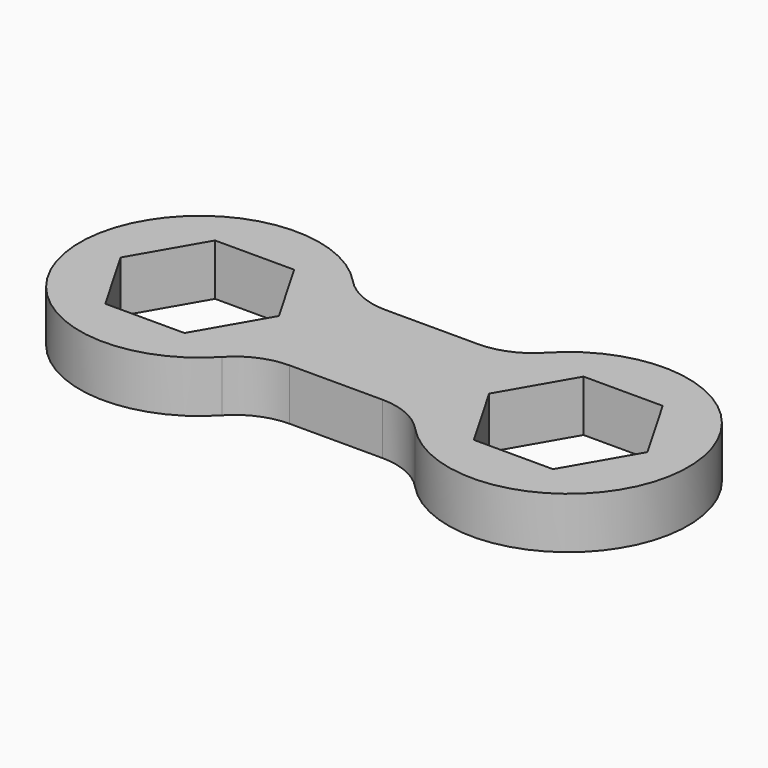
from build123d import *

# Parameters (mm, degrees)
F1_DEPTH = 3


with BuildPart() as f1:
    # F0 (on Top) → F1 (new body)
    with BuildSketch(Plane.XY):
        with BuildLine():
            ThreePointArc((-2.703262, 3.5), (-4.29871, 3.831956), (-5.629348, 4.772727))
            ThreePointArc((-5.629348, 4.772727), (-17.75, 0), (-5.629348, -4.772727))
            ThreePointArc((-5.629348, -4.772727), (-4.29871, -3.831956), (-2.703262, -3.5))
            Line((-2.703262, -3.5), (2.703262, -3.5))
            ThreePointArc((2.703262, -3.5), (4.29871, -3.831956), (5.629348, -4.772727))
            ThreePointArc((5.629348, -4.772727), (17.75, 0), (5.629348, 4.772727))
            ThreePointArc((5.629348, 4.772727), (4.29871, 3.831956), (2.703262, 3.5))
            Line((2.703262, 3.5), (-2.703262, 3.5))
        make_face()
        Polygon((-6.131198, 0), (-8.440599, -4), (-13.059401, -4), (-15.368802, 0), (-13.059401, 4), (-8.440599, 4), align=None, mode=Mode.SUBTRACT)
        Polygon((15.368802, 0), (13.059401, -4), (8.440599, -4), (6.131198, 0), (8.440599, 4), (13.059401, 4), align=None, mode=Mode.SUBTRACT)
    extrude(amount=F1_DEPTH)


solid = f1.part
